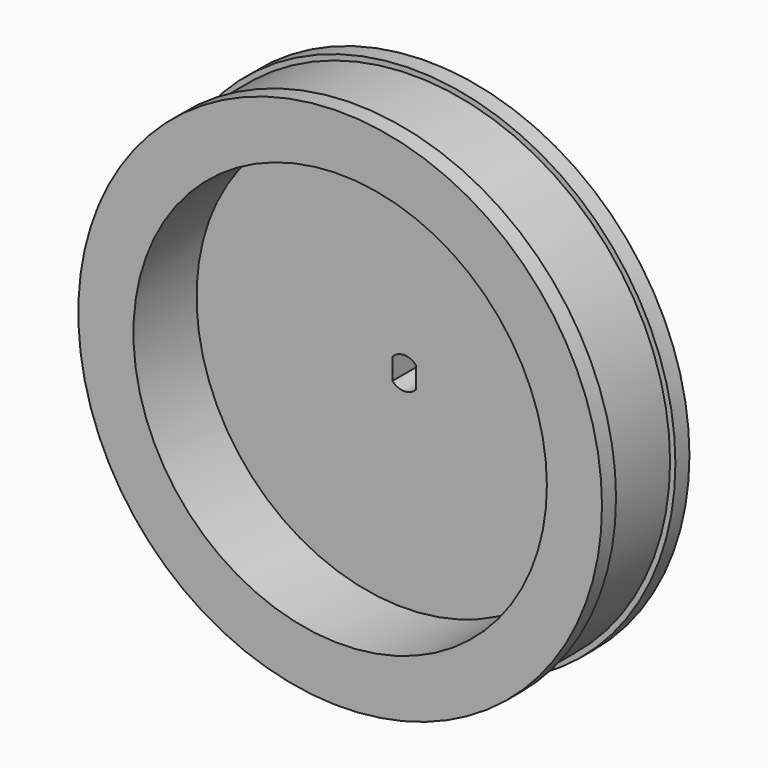
from build123d import *

# Parameters (mm, degrees)
EXTRUDE019_DEPTH           = 40
EXTRUDE019_ROLL_ANGLE      = -90
EXTRUDE019_PLACEMENT_ANGLE = 90
SKETCH001_R                = 39.566192
EXTRUDE_DEPTH              = 20
CUT001_PLACEMENT_ANGLE     = 90


with BuildPart() as pieza_clave_motor003:
    # Sketch021 → Extrude019 (new body)
    with BuildSketch(Plane(origin=(0, -17.4, 11), x_dir=(-1, 0, 0), z_dir=(0, 1, 0))):
        with BuildLine():
            Line((-2.055, -8.921835), (2.055, -8.921835))
            ThreePointArc((2.055, -13.431835), (3.05091, -11.176835), (2.055, -8.921835))
            Line((2.055, -13.431835), (-2.055, -13.431835))
            ThreePointArc((-2.055, -8.921835), (-3.05091, -11.176835), (-2.055, -13.431835))
        make_face()
    extrude(amount=EXTRUDE019_DEPTH)


with BuildPart() as pieza_clave_motor003_1:
    # Extrude019 roll: moved
    add(pieza_clave_motor003.part.rotate(Axis((0, 0, 0), (1, 0, 0)), EXTRUDE019_ROLL_ANGLE))


with BuildPart() as pieza_clave_motor003_2:
    # Extrude019 placement: moved
    add(pieza_clave_motor003_1.part.moved(Location((0, 0, 13.85))).rotate(Axis((0, 0, 13.85), (0, 0, 1)), EXTRUDE019_PLACEMENT_ANGLE))


with BuildPart() as extrude_body:
    # Sketch001 (on Face7 of Revolve) → Extrude (new body)
    with BuildSketch(Plane.XY.offset(20.92)):
        Circle(SKETCH001_R)
    extrude(amount=EXTRUDE_DEPTH)


with BuildPart() as extrude_body_1:
    # Extrude placement: moved
    add(extrude_body.part.moved(Location((0, 0, -15.1))))


with BuildPart() as obj1:
    # Sketch → Revolve (revolve)
    with BuildSketch(Plane.XZ):
        Polygon((0, 0), (50.12, 0), (50.12, 3.355495), (49.1, 3.355495), (49.1, 17.564505), (50.12, 17.564505), (50.12, 20.92), (0, 20.92), align=None)
    revolve(axis=Axis((0, 0, 0), (0, 0, 1)))

    # Cut030: cut Extrude body
    add(extrude_body_1.part, mode=Mode.SUBTRACT)

    # Cut001: cut Pieza Clave motor003
    add(pieza_clave_motor003_2.part, mode=Mode.SUBTRACT)


with BuildPart() as obj1_1:
    # Cut001 placement: moved
    add(obj1.part.moved(Location((-60, -5.4, 26.75))).rotate(Axis((-60, -5.4, 26.75), (1, 0, 0)), CUT001_PLACEMENT_ANGLE))


solid = obj1_1.part
